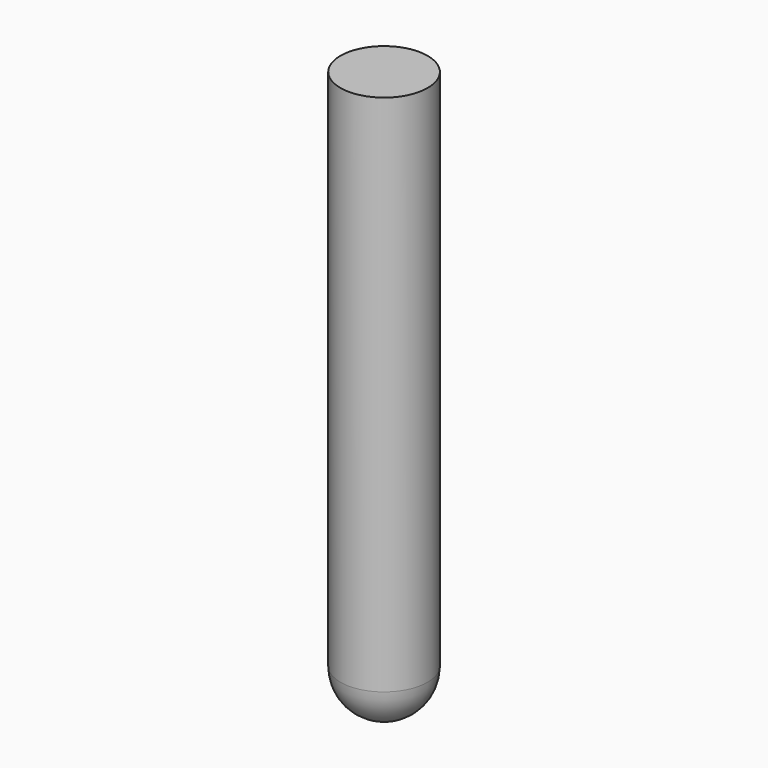
from build123d import *

# Parameters (mm, degrees)
CYLINDER001_R     = 5
CYLINDER001_DEPTH = 60


with BuildPart() as cylinder001:
    # Cylinder001 → Cylinder001 (new body)
    with BuildSketch(Plane.XY):
        Circle(CYLINDER001_R)
    extrude(amount=CYLINDER001_DEPTH)


with BuildPart() as fusion001:
    # Sphere → Sphere (revolve)
    with BuildSketch(Plane.XZ):
        with BuildLine():
            ThreePointArc((0, -5), (5, 0), (0, 5))
            Line((0, 5), (0, -5))
        make_face()
    revolve(axis=Axis((0, 0, 0), (0, 0, 1)))

    # Fusion001: union Cylinder001
    add(cylinder001.part)


with BuildPart() as fusion001_1:
    # Fusion001 placement: moved
    add(fusion001.part.moved(Location((0, 0, 30))))


solid = fusion001_1.part
